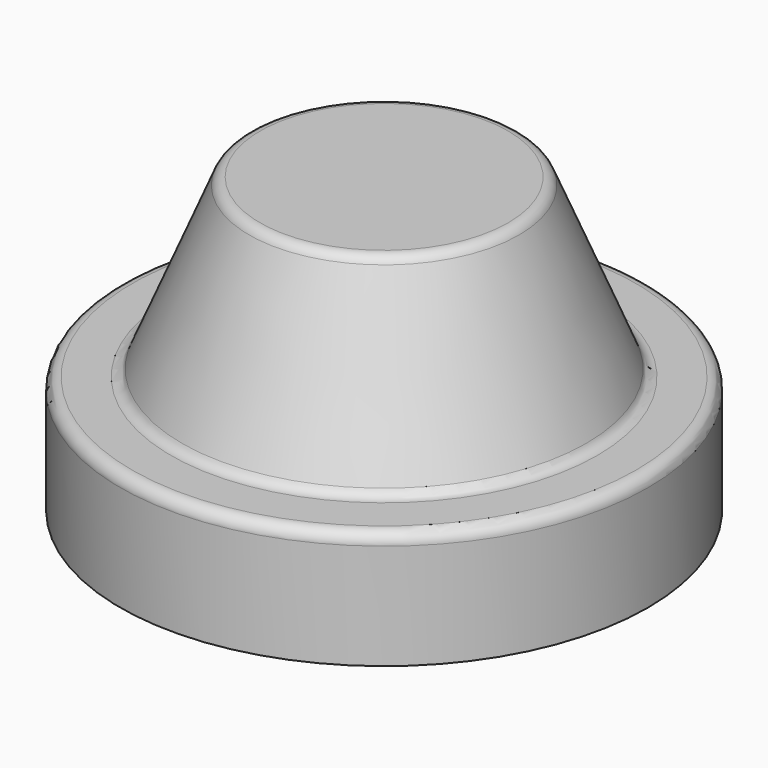
from build123d import *


with BuildPart() as f1:
    # F0 (on Front) → F1 (revolve)
    with BuildSketch(Plane.XZ):
        with BuildLine():
            Line((21.166667, 50), (0, 50))
            Line((0, 50), (0, 0))
            Line((0, 0), (45, 0))
            Line((45, 0), (45, 18))
            ThreePointArc((45, 18), (44.414214, 19.414214), (43, 20))
            Line((43, 20), (36.333333, 20))
            ThreePointArc((36.333333, 20), (35.223933, 20.335899), (34.487179, 21.230769))
            Line((34.487179, 21.230769), (23.012821, 48.769231))
            ThreePointArc((23.012821, 48.769231), (22.276067, 49.664101), (21.166667, 50))
        make_face()
    revolve(axis=Axis((0, 0, 14.774593), (0, 0, -1)))


solid = f1.part
